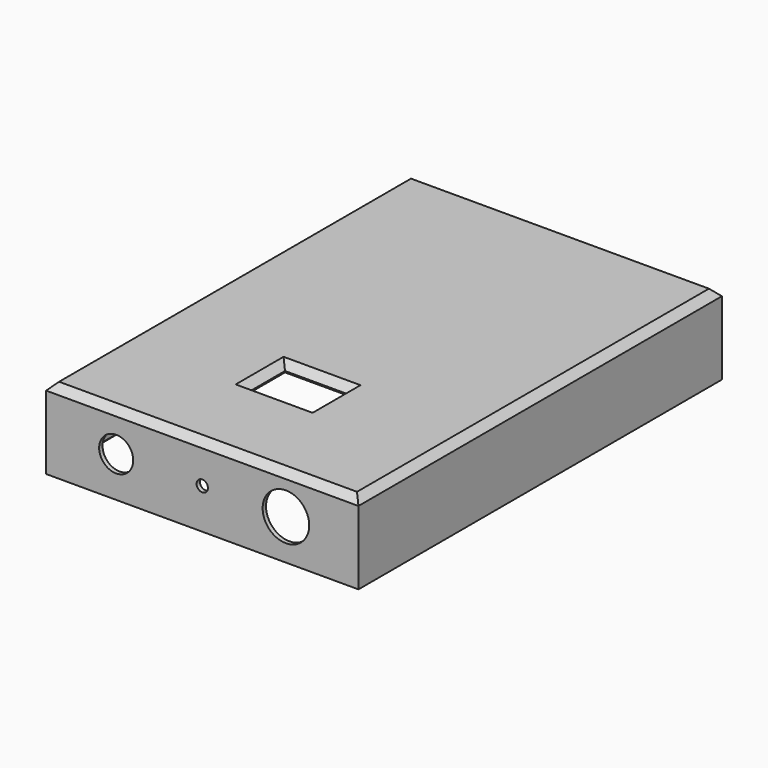
from build123d import *

# Parameters (mm, degrees)
F0_W      = 110
F0_H      = 160
F0_W_2    = 22
F0_H_2    = 16
F1_DEPTH  = 3
F2_W      = 110
F2_H      = 160
F2_W_2    = 107
F2_H_2    = 157
F3_DEPTH  = 25.4
F5_D      = 16.4
F5_DEPTH  = 7.62
F6_D      = 4
F6_DEPTH  = 7.62
F7_D      = 12
F7_DEPTH  = 7.62
F8_SIZE   = 1
F9_SIZE   = 2.54
F10_R     = 10.1
F11_DEPTH = 12.7


with BuildPart() as f1:
    # F0 (on Top) → F1 (new body)
    with BuildSketch(Plane.XY):
        Rectangle(F0_W, F0_H)
        with Locations((0, -37.821583)):
            Rectangle(F0_W_2, F0_H_2, mode=Mode.SUBTRACT)
    extrude(amount=F1_DEPTH)

    # F2 (on face) → F3 (join)
    with BuildSketch(Plane(origin=(0, 0, 0), x_dir=(1, 0, 0), z_dir=(0, 0, -1))):
        Rectangle(F2_W, F2_H)
        Rectangle(F2_W_2, F2_H_2, mode=Mode.SUBTRACT)
    extrude(amount=F3_DEPTH)

    # F5
    with Locations(Plane.XZ.offset(80)):
        with Locations((29.456884, -11.2)):
            Hole(F5_D / 2, depth=F5_DEPTH)

    # F6
    with Locations(Plane.XZ.offset(80)):
        with Locations((0, -11.2)):
            Hole(F6_D / 2, depth=F6_DEPTH)

    # F7
    with Locations(Plane.XZ.offset(80)):
        with Locations((-30.313604, -11.2)):
            Hole(F7_D / 2, depth=F7_DEPTH)

    # F8
    f8_edges = [f1.edges().sort_by_distance(p)[0] for p in [
        (53.5, 0, -25.4),
        (0, 78.5, -25.4),
        (-53.5, 0, -25.4),
        (0, -78.5, -25.4),
    ]]
    chamfer(f8_edges, length=F8_SIZE)

    # F9
    f9_edges = [f1.edges().sort_by_distance(p)[0] for p in [
        (0, -45.821583, 3),
        (-11, -37.821583, 3),
        (11, -37.821583, 3),
        (-55, 0, 3),
        (0, -80, 3),
        (55, 0, 3),
        (0, 80, 3),
        (0, -29.821583, 3),
    ]]
    chamfer(f9_edges, length=F9_SIZE)

    # F10 (on face) → F11 (cut, symmetric)
    with BuildSketch(Plane(origin=(-55, 0, 0), x_dir=(0, -1, 0), z_dir=(-1, 0, 0))):
        with Locations((0, -12.47)):
            Circle(F10_R)
    extrude(amount=F11_DEPTH, both=True, mode=Mode.SUBTRACT)


solid = f1.part
